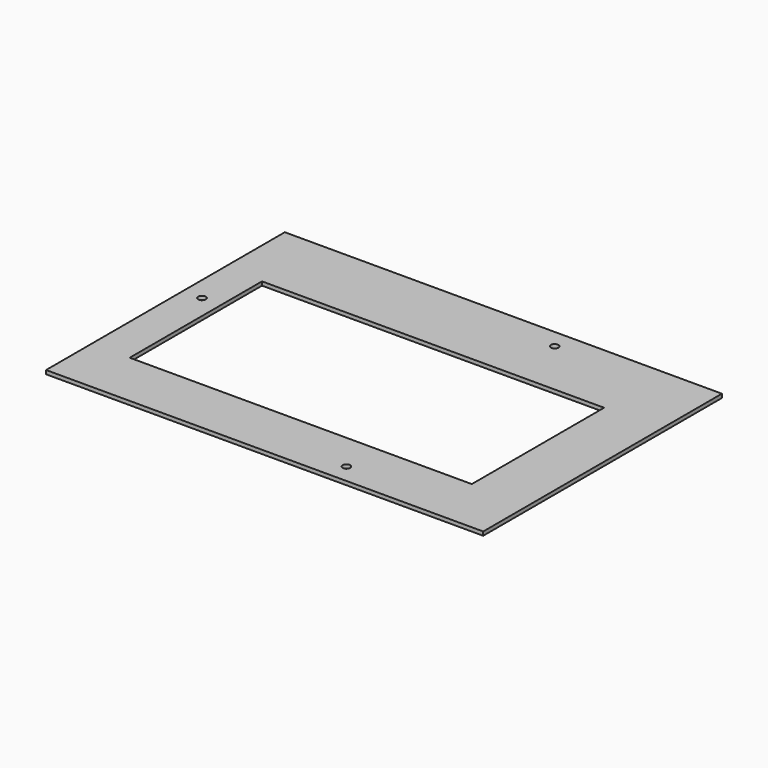
from build123d import *

# Parameters (mm, degrees)
F0_W     = 115
F0_H     = 78.5
F0_W_2   = 90
F0_H_2   = 43.5
F1_DEPTH = 1
F2_D     = 2


with BuildPart() as f1:
    # F0 (on Top) → F1 (new body)
    with BuildSketch(Plane.XY):
        with Locations((-0.0632920861, -5.75)):
            Rectangle(F0_W, F0_H)
        with Locations((-2.5632920861, -8.25)):
            Rectangle(F0_W_2, F0_H_2, mode=Mode.SUBTRACT)
    extrude(amount=F1_DEPTH)

    # F2 (through all)
    with Locations(Plane(origin=(0, 0, 0), x_dir=(1, 0, 0), z_dir=(0, 0, -1))):
        with Locations((-52.5632920861, 0), (17.4367079139, -28.5), (17.4367079139, 40)):
            Hole(F2_D / 2)


solid = f1.part
